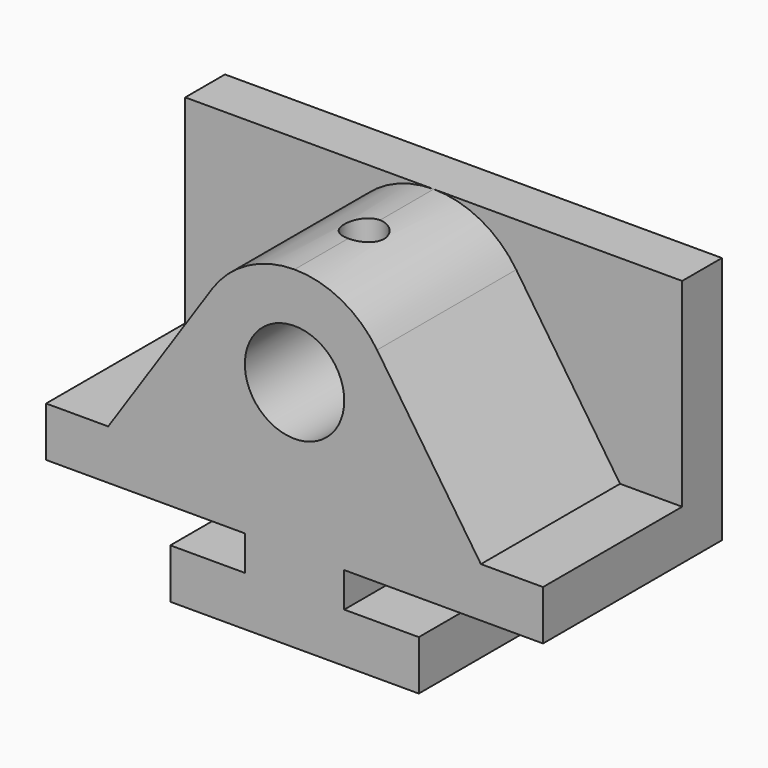
from build123d import *

# Parameters (mm, degrees)
F0_W     = 127
F0_H     = 85.09
F1_DEPTH = 57.15
F2_R     = 12.7
F3_DEPTH = 57.151
F4_DEPTH = 44.45
F5_R     = 5.08
F6_DEPTH = 13.7612578348


with BuildPart() as f1:
    # F0 (on Front) → F1 (new body)
    with BuildSketch(Plane.XZ):
        with Locations((63.5, 42.545)):
            Rectangle(F0_W, F0_H)
    extrude(amount=F1_DEPTH)

    # F2 (on face) → F3 (cut, through all)
    with BuildSketch(Plane.XZ.offset(57.15)):
        Polygon((0, 0), (31.75, 0), (31.75, 12.7), (50.8, 12.7), (50.8, 21.59), (0, 21.59), align=None)
        Polygon((95.25, 12.7), (95.25, 0), (127, 0), (127, 21.59), (76.2, 21.59), (76.2, 12.7), align=None)
        with Locations((63.5, 59.69)):
            Circle(F2_R)
    extrude(amount=-F3_DEPTH, mode=Mode.SUBTRACT)

    # F2 (on face) → F4 (cut)
    with BuildSketch(Plane.XZ.offset(57.15)):
        with BuildLine():
            Line((111.125, 34.29), (127, 34.29))
            Line((127, 34.29), (127, 85.09))
            Line((127, 85.09), (63.5, 85.09))
            ThreePointArc((63.5, 85.09), (75.4529411765, 82.1017647059), (84.5934256055, 73.8401730104))
            Line((84.5934256055, 73.8401730104), (111.125, 34.29))
        make_face()
        with BuildLine():
            Line((0, 85.09), (0, 34.29))
            Line((0, 34.29), (15.875, 34.29))
            Line((15.875, 34.29), (42.4065743945, 73.8401730104))
            ThreePointArc((42.4065743945, 73.8401730104), (51.5470588235, 82.1017647059), (63.5, 85.09))
            Line((63.5, 85.09), (0, 85.09))
        make_face()
    extrude(amount=-F4_DEPTH, mode=Mode.SUBTRACT)

    # F5 (on face) → F6 (cut, through all)
    with BuildSketch(Plane.XY.offset(85.09)):
        with Locations((63.5, -34.925)):
            Circle(F5_R)
    extrude(amount=-F6_DEPTH, mode=Mode.SUBTRACT)


solid = f1.part
